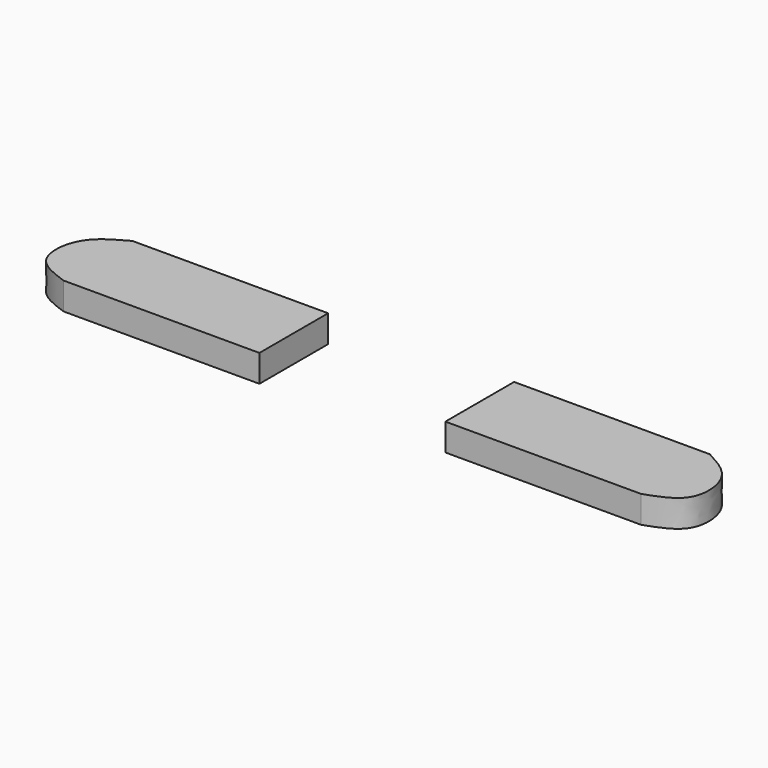
from build123d import *

# Parameters (mm, degrees)
F1_DEPTH = 5


with BuildPart() as f1:
    # F0 (on Top) → F1 (new body)
    with BuildSketch(Plane.XY):
        with BuildLine():
            Line((-17.089150846, 3.0980331358), (-17.089150846, 18.8880078495))
            Line((-17.089150846, 18.8880078495), (-53.0663095415, 18.8880078495))
            add(Edge.make_bspline(
                [(-53.0663095415, 18.8880078495), (-55.3296501487, 17.6835168568), (-59.857569347, 15.2738760489), (-60.6814601397, 5.7835653094), (-55.5966735327, 3.9903823837), (-53.0663095415, 3.0980331358)],
                knots=[0, 0, 0, 0, 0.3342614244, 0.6687056804, 1, 1, 1, 1], degree=3))
            Line((-53.0663095415, 3.0980331358), (-17.089150846, 3.0980331358))
        make_face()
    extrude(amount=F1_DEPTH)


with BuildPart() as f2_1:
    # F2: instance of F1
    add(f1.part.mirror(Plane.YZ))


solid = Compound([f1.part, f2_1.part])
